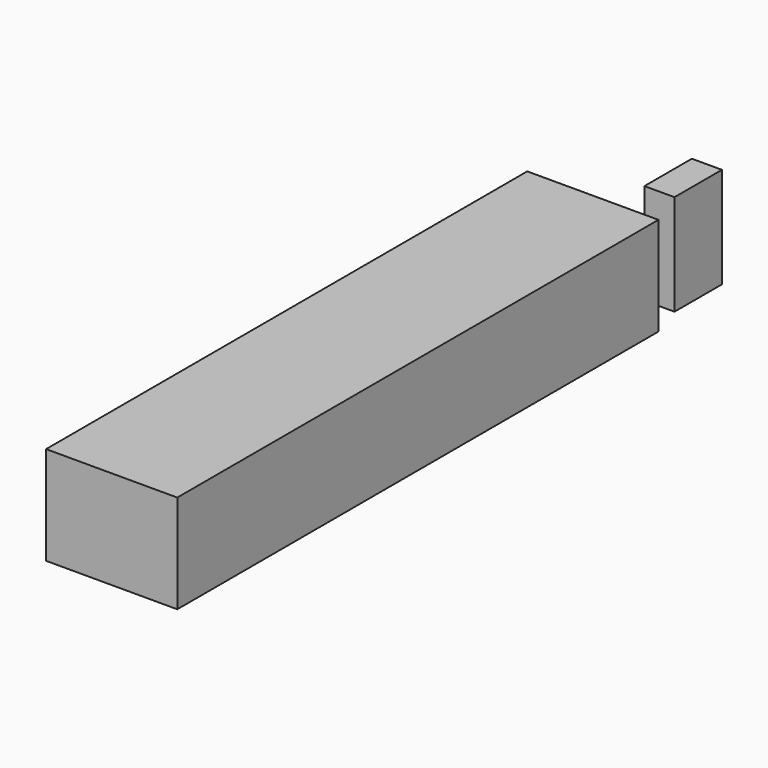
from build123d import *

# Parameters (mm, degrees)
F0_W     = 110.810742
F0_H     = 83.093062
F1_DEPTH = 508
F2_W     = 50.076037
F2_H     = 85.195124
F3_DEPTH = 25.4


with BuildPart() as f1:
    # F0 (on Front) → F1 (new body)
    with BuildSketch(Plane.XZ):
        with Locations((0, 16.104467)):
            Rectangle(F0_W, F0_H)
    extrude(amount=F1_DEPTH)


with BuildPart() as f3:
    # F2 (on Right) → F3 (new body)
    with BuildSketch(Plane.YZ):
        with Locations((79.477199, 0)):
            Rectangle(F2_W, F2_H)
    extrude(amount=F3_DEPTH)


solid = Compound([f1.part, f3.part])
